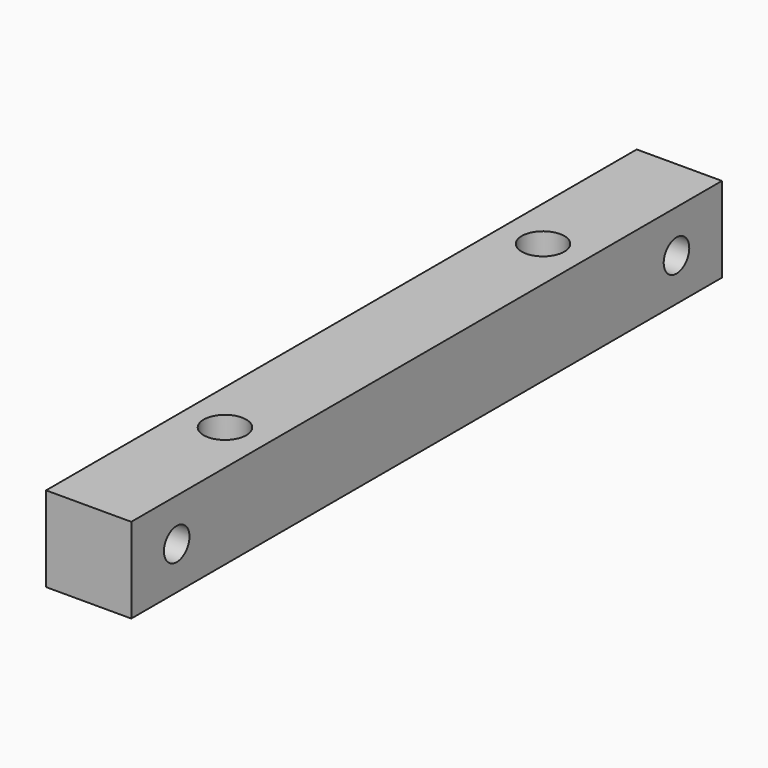
from build123d import *

# Parameters (mm, degrees)
F0_W     = 9.525
F0_H     = 9.525
F1_DEPTH = 41.275
F2_R     = 2.38125
F3_DEPTH = 9.525
F4_R     = 1.785937
F5_DEPTH = 9.525


with BuildPart() as f1:
    # F0 (on Front) → F1 (new body, symmetric)
    with BuildSketch(Plane.XZ):
        Rectangle(F0_W, F0_H)
    extrude(amount=F1_DEPTH, both=True)

    # F2 (on face) → F3 (cut, through all)
    with BuildSketch(Plane.XY.offset(4.7625)):
        with Locations((0, 22.225)):
            Circle(F2_R)
        with Locations((0, -22.225)):
            Circle(F2_R)
    extrude(amount=-F3_DEPTH, mode=Mode.SUBTRACT)

    # F4 (on face) → F5 (cut, through all)
    with BuildSketch(Plane.YZ.offset(4.7625)):
        with Locations((-34.925, 0)):
            Circle(F4_R)
        with Locations((34.925, 0)):
            Circle(F4_R)
    extrude(amount=-F5_DEPTH, mode=Mode.SUBTRACT)


solid = f1.part
